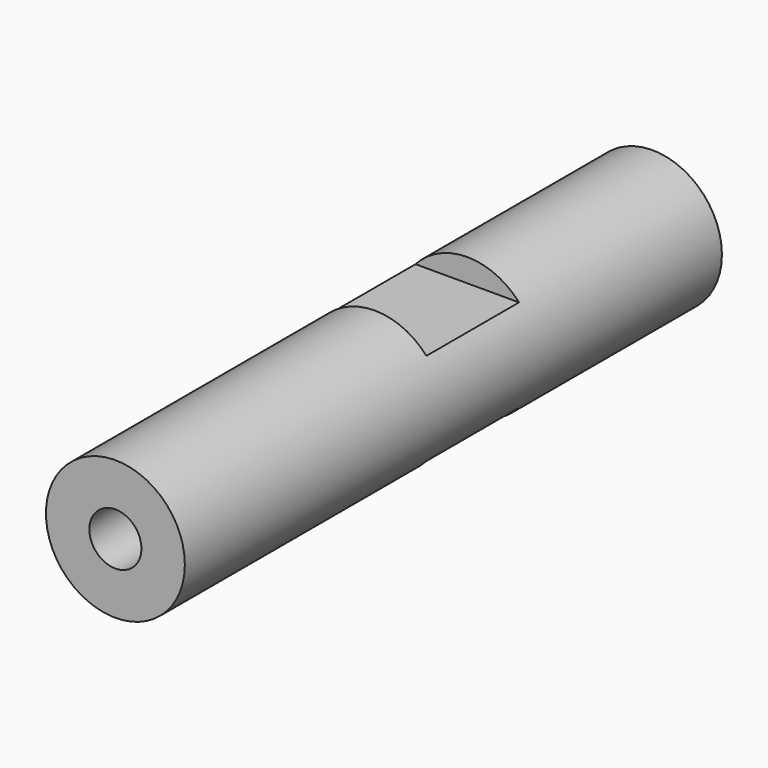
from build123d import *

# Parameters (mm, degrees)
F0_R          = 6
F1_DEPTH      = 58
F2_R          = 2.75
F3_DEPTH      = 48
F4_W          = 10
F4_H          = 2
F5_DEPTH      = 6.001
F5_DEPTH_BACK = 6.001
F7_D          = 4.5
F7_DEPTH      = 10
F7_TIP        = 1.3519363928


with BuildPart() as f1:
    # F0 (on Front) → F1 (new body)
    with BuildSketch(Plane.XZ):
        Circle(F0_R)
    extrude(amount=F1_DEPTH)

    # F2 (on Front) → F3 (cut)
    with BuildSketch(Plane.XZ):
        Circle(F2_R)
    extrude(amount=F3_DEPTH, mode=Mode.SUBTRACT)

    # F4 (on Right) → F5 (cut, two sides)
    with BuildSketch(Plane.YZ) as f5_sk:
        with Locations((-25, -5)):
            Rectangle(F4_W, F4_H)
        with Locations((-25, 5)):
            Rectangle(F4_W, F4_H)
    extrude(amount=F5_DEPTH, mode=Mode.SUBTRACT)
    extrude(f5_sk.sketch, amount=-F5_DEPTH_BACK, mode=Mode.SUBTRACT)

    # F7
    with Locations(Plane.XZ.offset(58)):
        with Locations((0, 0)):
            Hole(F7_D / 2, depth=F7_DEPTH)
            with Locations((0, 0, -(F7_DEPTH + F7_TIP / 2))):  # 118° drill point
                Cone(0, F7_D / 2, F7_TIP, mode=Mode.SUBTRACT)


solid = f1.part
